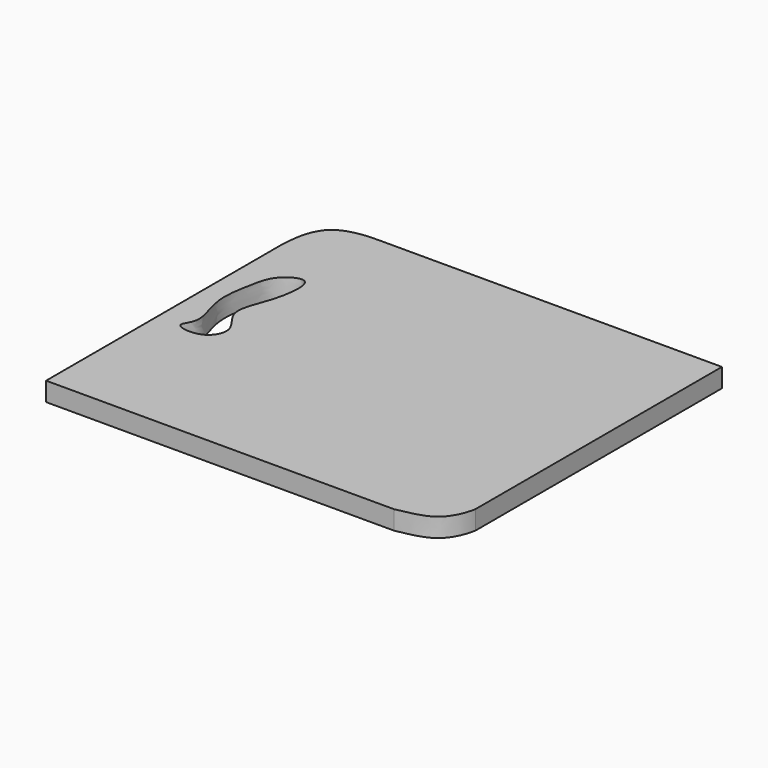
from build123d import *

# Parameters (mm, degrees)
F0_W     = 400
F0_H     = 350
F1_DEPTH = 19
F3_DEPTH = 19.001
F5_DEPTH = 19.0010001
F7_DEPTH = 19.0010001


with BuildPart() as f1:
    # F0 (on Top) → F1 (new body)
    with BuildSketch(Plane.XY):
        Rectangle(F0_W, F0_H)
    extrude(amount=F1_DEPTH)

    # F2 (on face) → F3 (cut, through all)
    with BuildSketch(Plane.XY.offset(19)):
        with BuildLine():
            add(Edge.make_bspline(
                [(-145.7076668739, 175), (-153.7114434414, 175), (-197.9093558229, 174.5698502037), (-199.5228952463, 130.1429581257), (-200, 121.6157187413)],
                knots=[0, 0, 0, 0, 0.4163787427, 0.838074678, 0.838074678, 0.838074678, 0.838074678], degree=3))
            Line((-145.7076668739, 175), (-200, 175))
            Line((-200, 175), (-200, 121.6157187413))
        make_face()
    extrude(amount=-F3_DEPTH, mode=Mode.SUBTRACT)

    # F4 (on face) → F5 (cut, through all)
    with BuildSketch(Plane.XY.offset(19)):
        with BuildLine():
            add(Edge.make_bspline(
                [(150.1834690571, -175), (160.493893298, -172.6533106613), (190.8117241774, -169.4206851853), (199.1673253263, -140.8786892729), (200, -134.9417865276)],
                knots=[0, 0, 0, 0, 0.4532102639, 0.8559847133, 0.8559847133, 0.8559847133, 0.8559847133], degree=3))
            Line((150.1834690571, -175), (200, -175))
            Line((200, -175), (200, -134.9417865276))
        make_face()
    extrude(amount=-F5_DEPTH, mode=Mode.SUBTRACT)

    # F6 (on face) → F7 (cut, through all)
    with BuildSketch(Plane.XY.offset(19)):
        with BuildLine():
            add(Edge.make_bspline(
                [(-167.1223193407, 75.8109614253), (-173.5084438064, 68.4049928594), (-176.548194404, 48.7209384478), (-183.4599341076, 15.0796886804), (-165.8342717612, -21.2152566444), (-184.2163299723, -37.6258072073), (-150.4015747749, -42.6759621033), (-135.4626623404, -15.85250952), (-164.8810957194, 6.9171346651), (-144.2013429008, 43.5402370236), (-139.9003526499, 93.8951004415), (-161.5481343057, 82.2753263734), (-167.1223193407, 75.8109614253)],
                knots=[0, 0, 0, 0, 0.1000633515, 0.2116272772, 0.3267000241, 0.3965458879, 0.4862861647, 0.5767126543, 0.6769159149, 0.7976651677, 0.9126588216, 1, 1, 1, 1], degree=3))
        make_face()
    extrude(amount=-F7_DEPTH, mode=Mode.SUBTRACT)


solid = f1.part
